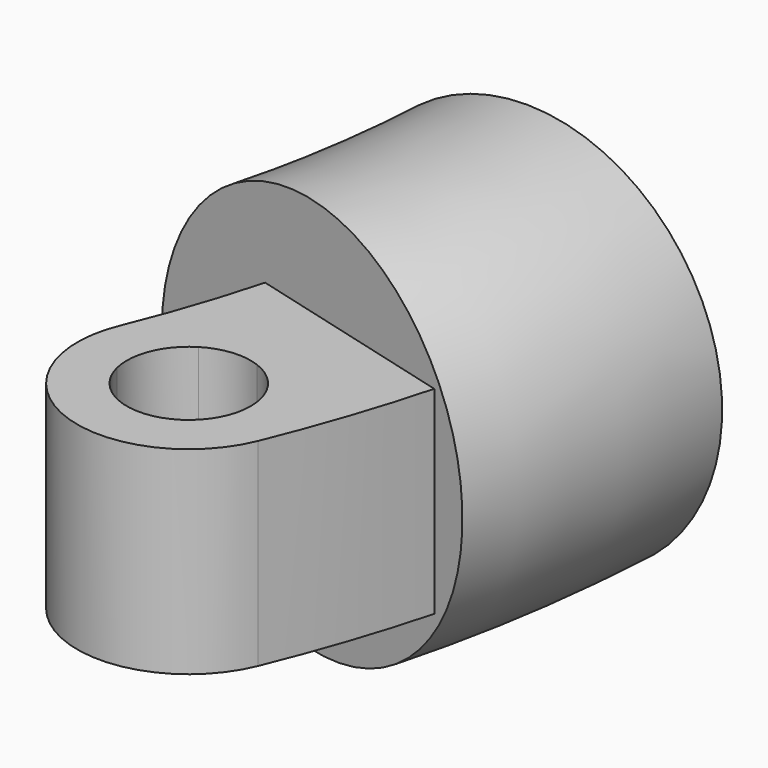
from build123d import *

# Parameters (mm, degrees)
F1_DEPTH = 8
F3_R     = 16
F4_ANGLE = 12


with BuildPart() as f1:
    # F0 (on Top) → F1 (new body, symmetric)
    with BuildSketch(Plane.XY):
        with BuildLine():
            ThreePointArc((85.9154672746, -26.8054562168), (88.5876262624, -15.8818283958), (89.8766581279, -4.7102360619))
            Line((89.8766581279, -4.7102360619), (84.8835104541, -4.4485562807))
            ThreePointArc((84.8835104541, -4.4485562807), (82.9283168542, -18.6519238613), (78.6137301976, -32.3246256655))
            ThreePointArc((78.6137301976, -32.3246256655), (81.5105986382, -28.5675157659), (85.9154672746, -26.8054562168))
        make_face()
        with BuildLine():
            ThreePointArc((84.3099746949, -31.4933035256), (85.1449895855, -29.1604312122), (85.9154672746, -26.8054562168))
            ThreePointArc((85.9154672746, -26.8054562168), (81.5105986382, -28.5675157659), (78.6137301976, -32.3246256655))
            ThreePointArc((78.6137301976, -32.3246256655), (78.0298237832, -37.0327861192), (79.9211312838, -41.3837259599))
            ThreePointArc((79.9211312838, -41.3837259599), (81.0300791098, -39.1679241147), (82.0776087059, -36.9224342252))
            ThreePointArc((82.0776087059, -36.9224342252), (82.313199854, -33.8457845203), (84.3099746948, -31.4933035256))
        make_face()
        with BuildLine():
            ThreePointArc((82.0776087059, -36.9224342252), (81.0300791098, -39.1679241147), (79.9211312838, -41.3837259599))
            ThreePointArc((79.9211312838, -41.3837259599), (81.376826044, -42.8238491237), (83.1203735404, -43.8976480292))
            ThreePointArc((83.1203735404, -43.8976480292), (84.0361211175, -42.1180525134), (84.9137732661, -40.3193639548))
            ThreePointArc((84.9137732661, -40.3193639548), (83.0994271865, -38.9517476604), (82.0776087059, -36.9224342252))
        make_face()
        with BuildLine():
            ThreePointArc((95.9375369244, -35.7472330889), (94.2921894822, -30.5598362701), (89.9577400899, -27.2691216931))
            ThreePointArc((89.9577400899, -27.2691216931), (89.3567863501, -29.1781550682), (88.7153252067, -31.0739613417))
            ThreePointArc((88.7153252067, -31.0739613417), (91.0539031261, -32.9090066542), (91.9375369244, -35.7472330889))
            ThreePointArc((91.9375369244, -35.7472330889), (89.6652815705, -39.9376279564), (84.9137732661, -40.3193639548))
            ThreePointArc((84.9137732661, -40.3193639548), (84.0361211175, -42.1180525134), (83.1203735404, -43.8976480292))
            ThreePointArc((83.1203735404, -43.8976480292), (90.2033445633, -44.1337997562), (95.2613436513, -39.1698405123))
            ThreePointArc((95.2613436513, -39.1698405123), (95.7668704367, -37.4916154235), (95.9375369244, -35.7472330889))
        make_face()
        with BuildLine():
            ThreePointArc((89.9577400899, -27.2691216931), (87.9631493293, -26.8058618744), (85.9154672746, -26.8054562168))
            ThreePointArc((85.9154672746, -26.8054562168), (85.1449895855, -29.1604312122), (84.3099746949, -31.4933035256))
            ThreePointArc((84.3099746948, -31.4933035256), (86.4637322103, -30.7697328033), (88.7153252067, -31.0739613417))
            ThreePointArc((88.7153252067, -31.0739613417), (89.3567863501, -29.1781550682), (89.9577400899, -27.2691216931))
        make_face()
        with BuildLine():
            Line((93.8711762669, -4.9195798868), (89.8766581279, -4.7102360619))
            ThreePointArc((89.8766581279, -4.7102360619), (88.5876262624, -15.8818283958), (85.9154672746, -26.8054562168))
            ThreePointArc((85.9154672746, -26.8054562168), (87.9631493293, -26.8058618744), (89.9577400899, -27.2691216931))
            ThreePointArc((89.9577400899, -27.2691216931), (92.5912691725, -16.2128613461), (93.8711762669, -4.9195798868))
        make_face()
        with BuildLine():
            Line((102.8588420797, -5.390603493), (93.8711762669, -4.9195798868))
            ThreePointArc((93.8711762669, -4.9195798868), (92.5912691725, -16.2128613461), (89.9577400899, -27.2691216931))
            ThreePointArc((89.9577400899, -27.2691216931), (94.2921894822, -30.5598362701), (95.9375369244, -35.7472330889))
            ThreePointArc((95.9375369244, -35.7472330889), (95.7668704367, -37.4916154235), (95.2613436513, -39.1698405123))
            ThreePointArc((95.2613436513, -39.1698405123), (100.4896074822, -22.6017430319), (102.8588420797, -5.390603493))
        make_face()
    extrude(amount=F1_DEPTH, both=True)

    # F3 (on offset) → F4 (revolve)
    with BuildSketch(Plane(origin=(0, 0, 0), x_dir=(-0.9986295348, 0.0523359562, 0), z_dir=(0.0523359562, 0.9986295348, 0))):
        with Locations((-90, 0)):
            Circle(F3_R)
    revolve(axis=Axis((0, 0, 16.647497192), (0, 0, -1)), revolution_arc=F4_ANGLE)


solid = f1.part
